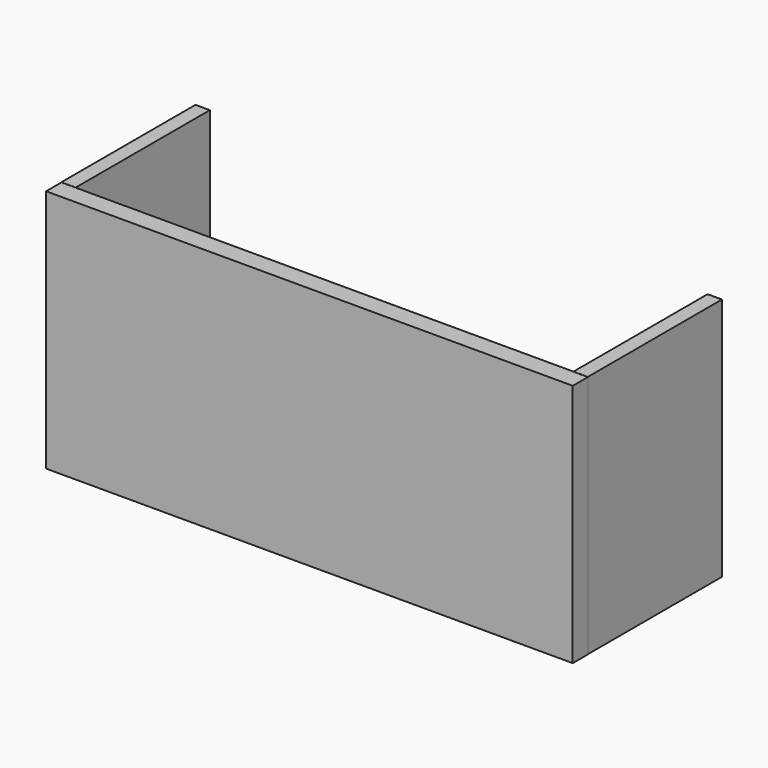
from build123d import *

# Parameters (mm, degrees)
F0_W     = 110
F0_H     = 51
F1_DEPTH = 4
F2_W     = 3
F2_H     = 35
F3_DEPTH = 51
F4_W     = 3
F4_H     = 35
F5_DEPTH = 51


with BuildPart() as f1:
    # F0 (on Front) → F1 (new body)
    with BuildSketch(Plane.XZ):
        with Locations((-0.199405, 25.461623)):
            Rectangle(F0_W, F0_H)
    extrude(amount=F1_DEPTH)

    # F2 (on Top) → F3 (join)
    with BuildSketch(Plane.XY):
        with Locations((-53.699395, 17.5)):
            Rectangle(F2_W, F2_H)
    extrude(amount=F3_DEPTH)


with BuildPart() as f5:
    # F4 (on Top) → F5 (new body)
    with BuildSketch(Plane.XY):
        with Locations((53.299694, 17.445809)):
            Rectangle(F4_W, F4_H)
    extrude(amount=F5_DEPTH)


solid = Compound([f1.part, f5.part])
